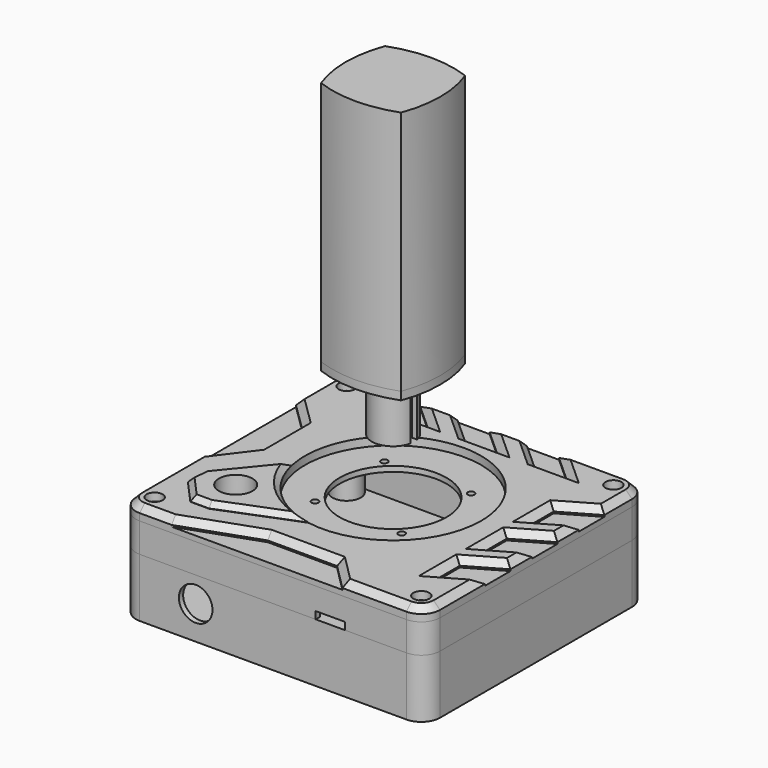
from build123d import *

# Parameters (mm, degrees)
SKETCH_R         = 1.775
EXTRUDE_DEPTH    = 3
EXTRUDE006_DEPTH = 22
SKETCH002_R      = 20.05
SKETCH002_R_2    = 1.275
SKETCH002_R_3    = 6.3
SKETCH002_R_4    = 1.8
EXTRUDE002_DEPTH = 2
SKETCH021_R      = 6.3
EXTRUDE010_DEPTH = 2
CHAMFER_SIZE     = 1.9
SKETCH001_R      = 6.3
SKETCH001_R_2    = 33
SKETCH001_R_3    = 3
EXTRUDE001_DEPTH = 3
CHAMFER001_SIZE  = 2.4
EXTRUDE013_DEPTH = 9.8
SKETCH026_W      = 14.5
SKETCH026_H      = 3
SKETCH026_W_2    = 4
EXTRUDE014_DEPTH = 11
SKETCH027_W      = 11
SKETCH027_H      = 2
EXTRUDE015_DEPTH = 2.74
SKETCH025_W      = 8
SKETCH025_H      = 2
EXTRUDE012_DEPTH = 3
SKETCH024_R      = 1.8
EXTRUDE011_DEPTH = 11
SKETCH028_W      = 1.5
SKETCH028_H      = 54.14
SKETCH028_H_2    = 20
EXTRUDE016_DEPTH = 11
SKETCH029_W      = 32.66
SKETCH029_H      = 3
EXTRUDE017_DEPTH = 3
SKETCH032_R      = 6.3
EXTRUDE020_DEPTH = 10
SKETCH031_R      = 1.8
EXTRUDE019_DEPTH = 19
SKETCH033_W      = 4
SKETCH033_H      = 10
EXTRUDE021_DEPTH = 19
SKETCH034_W      = 51.2
SKETCH034_H      = 3
EXTRUDE022_DEPTH = 19
SKETCH030_R      = 1.8
EXTRUDE018_DEPTH = 3
SKETCH035_R      = 1.45
EXTRUDE023_DEPTH = 89
EXTRUDE024_DEPTH = 3


with BuildPart() as extrude_handgrip:
    # Sketch → Extrude (new body)
    with BuildSketch(Plane.XY):
        with BuildLine():
            ThreePointArc((15, 15), (0, 17.720019), (-15, 15))
            ThreePointArc((-15, 15), (-17.720019, 0), (-15, -15))
            ThreePointArc((-15, -15), (0, -17.720019), (15, -15))
            ThreePointArc((15, -15), (17.720019, 0), (15, 15))
        make_face()
        with Locations((-11.75, 11.75)):
            Circle(SKETCH_R, mode=Mode.SUBTRACT)
        with Locations((11.75, 11.75)):
            Circle(SKETCH_R, mode=Mode.SUBTRACT)
        with Locations((11.75, -11.75)):
            Circle(SKETCH_R, mode=Mode.SUBTRACT)
        with Locations((-11.75, -11.75)):
            Circle(SKETCH_R, mode=Mode.SUBTRACT)
    extrude(amount=EXTRUDE_DEPTH)


with BuildPart() as extrude_handgrip_1:
    # Extrude placement: moved
    add(extrude_handgrip.part.moved(Location((0, 0, 45))))


with BuildPart() as fusion_stick_base:
    # Sketch018 → Extrude006 (new body)
    with BuildSketch(Plane.XY):
        with BuildLine():
            ThreePointArc((-7.795555, -1.552914), (0, -7.948724), (7.795555, -1.552914))
            Line((7.795555, -1.552914), (5.795555, -1.552914))
            ThreePointArc((-5.795555, -1.552914), (0, -6), (5.795555, -1.552914))
            Line((-5.795555, -1.552914), (-7.795555, -1.552914))
        make_face()
        with BuildLine():
            ThreePointArc((5.795555, 1.552914), (0, 6), (-5.795555, 1.552914))
            Line((-5.795555, 1.552914), (-7.795555, 1.552914))
            ThreePointArc((7.795555, 1.552914), (0, 7.948724), (-7.795555, 1.552914))
            Line((7.795555, 1.552914), (5.795555, 1.552914))
        make_face()
    extrude(amount=EXTRUDE006_DEPTH)


with BuildPart() as fusion_stick_base_1:
    # Extrude006 placement: moved
    add(fusion_stick_base.part.moved(Location((0, 0, 23))))

    # Fusion: union Extrude Handgrip
    add(extrude_handgrip_1.part)


with BuildPart() as extrude002:
    # Sketch002 → Extrude002 (new body)
    with BuildSketch(Plane.XY):
        with BuildLine():
            Line((49, 49), (-51, 49))
            ThreePointArc((-51, 49), (-55.949747, 46.949747), (-58, 42))
            Line((-58, 42), (-58, -48))
            ThreePointArc((-58, -48), (-55.949747, -52.949747), (-51, -55))
            Line((-51, -55), (49, -55))
            ThreePointArc((49, -55), (53.949747, -52.949747), (56, -48))
            Line((56, -48), (56, 42))
            ThreePointArc((56, 42), (53.949747, 46.949747), (49, 49))
        make_face()
        Circle(SKETCH002_R, mode=Mode.SUBTRACT)
        with Locations((-16.25, 16.25)):
            Circle(SKETCH002_R_2, mode=Mode.SUBTRACT)
        with Locations((16.25, 16.25)):
            Circle(SKETCH002_R_2, mode=Mode.SUBTRACT)
        with Locations((16.25, -16.25)):
            Circle(SKETCH002_R_2, mode=Mode.SUBTRACT)
        with Locations((-16.25, -16.25)):
            Circle(SKETCH002_R_2, mode=Mode.SUBTRACT)
        with Locations((-35, -30)):
            Circle(SKETCH002_R_3, mode=Mode.SUBTRACT)
        with Locations((-51, 42)):
            Circle(SKETCH002_R_4, mode=Mode.SUBTRACT)
        with Locations((49, 42)):
            Circle(SKETCH002_R_4, mode=Mode.SUBTRACT)
        with Locations((49, -48)):
            Circle(SKETCH002_R_4, mode=Mode.SUBTRACT)
        with Locations((-51, -48)):
            Circle(SKETCH002_R_4, mode=Mode.SUBTRACT)
    extrude(amount=-EXTRUDE002_DEPTH)


with BuildPart() as extrude002_1:
    # Extrude002 placement: moved
    add(extrude002.part.moved(Location((0, 0, -3))))


with BuildPart() as chamfer_body:
    # Sketch021 → Extrude010 (new body)
    with BuildSketch(Plane.XY):
        with BuildLine():
            Line((-5.67, -32.509246), (-34, -43.747727))
            Line((-41, -43.747727), (-34, -43.747727))
            Line((-49.299586, -34.530103), (-41, -43.747727))
            Line((-48.567887, -27.568449), (-49.299586, -34.530103))
            Line((-48.567887, -27.568449), (-32.140365, -7.483112))
            ThreePointArc((-32.140365, -7.483112), (-22.671188, -23.979517), (-5.67, -32.509246))
        make_face()
        with Locations((-35, -30)):
            Circle(SKETCH021_R, mode=Mode.SUBTRACT)
    extrude(amount=EXTRUDE010_DEPTH)

    # Chamfer
    chamfer_edges = [chamfer_body.edges().sort_by_distance(p)[0] for p in [
        (-40.354126, -17.525781, 2),
        (-22.671188, -23.979517, 2),
        (-19.835, -38.128487, 2),
        (-37.5, -43.747727, 2),
        (-45.149793, -39.138915, 2),
        (-48.933737, -31.049276, 2),
    ]]
    chamfer(chamfer_edges, length=CHAMFER_SIZE)


with BuildPart() as fusion_cover:
    # Sketch001 → Extrude001 (new body)
    with BuildSketch(Plane.XY):
        with BuildLine():
            ThreePointArc((56, 42), (53.949747, 46.949747), (49, 49))
            Line((23, 49), (49, 49))
            Line((34.147172, 38.963041), (23, 49))
            Line((22.147172, 38.963041), (34.147172, 38.963041))
            Line((11, 49), (22.147172, 38.963041))
            Line((11, 49), (-3, 49))
            Line((8.147172, 38.963041), (-3, 49))
            Line((-3.852828, 38.963041), (8.147172, 38.963041))
            Line((-15, 49), (-3.852828, 38.963041))
            Line((-29, 49), (-15, 49))
            Line((-17.852828, 38.963041), (-29, 49))
            Line((-29.852828, 38.963041), (-17.852828, 38.963041))
            Line((-41, 49), (-29.852828, 38.963041))
            Line((-51, 49), (-41, 49))
            ThreePointArc((-51, 49), (-55.949747, 46.949747), (-58, 42))
            Line((-58, 42), (-58, 27))
            Line((-47.16733, 16.375439), (-58, 27))
            Line((-47.16733, -3.624561), (-47.16733, 16.375439))
            Line((-58, -18), (-47.16733, -3.624561))
            Line((-58, -18), (-58, -48))
            ThreePointArc((-58, -48), (-55.949747, -52.949747), (-51, -55))
            Line((-39, -55), (-51, -55))
            Line((-39, -55), (-10.904513, -45.100505))
            Line((-10.904513, -45.100505), (15.100505, -45.100505))
            Line((15.100505, -45.100505), (25, -55))
            Line((49, -55), (25, -55))
            ThreePointArc((49, -55), (53.949747, -52.949747), (56, -48))
            Line((56, -27), (56, -48))
            Line((43.009619, -34.5), (56, -27))
            Line((43.009619, -22.5), (43.009619, -34.5))
            Line((56, -15), (43.009619, -22.5))
            Line((56, -5), (56, -15))
            Line((43.009619, -12.5), (56, -5))
            Line((43.009619, -0.5), (43.009619, -12.5))
            Line((56, 7), (43.009619, -0.5))
            Line((56, 17), (56, 7))
            Line((43.009619, 9.5), (56, 17))
            Line((43.009619, 21.5), (43.009619, 9.5))
            Line((56, 29), (43.009619, 21.5))
            Line((56, 42), (56, 29))
        make_face()
        with Locations((-35, -30)):
            Circle(SKETCH001_R, mode=Mode.SUBTRACT)
        Circle(SKETCH001_R_2, mode=Mode.SUBTRACT)
        with Locations((-51, 42)):
            Circle(SKETCH001_R_3, mode=Mode.SUBTRACT)
        with Locations((49, 42)):
            Circle(SKETCH001_R_3, mode=Mode.SUBTRACT)
        with Locations((49, -48)):
            Circle(SKETCH001_R_3, mode=Mode.SUBTRACT)
        with Locations((-51, -48)):
            Circle(SKETCH001_R_3, mode=Mode.SUBTRACT)
    extrude(amount=-EXTRUDE001_DEPTH)

    # Chamfer001
    chamfer001_edges = [fusion_cover.edges().sort_by_distance(p)[0] for p in [
        (53.949747, 46.949747, 0),
        (36, 49, 0),
        (28.573586, 43.98152, 0),
        (28.147172, 38.963041, 0),
        (16.573586, 43.98152, 0),
        (4, 49, 0),
        (2.573586, 43.98152, 0),
        (2.147172, 38.963041, 0),
        (-9.426414, 43.98152, 0),
        (-22, 49, 0),
        (-23.426414, 43.98152, 0),
        (-23.852828, 38.963041, 0),
        (-35.426414, 43.98152, 0),
        (-46, 49, 0),
        (-55.949747, 46.949747, 0),
        (-58, 34.5, 0),
        (-52.583665, 21.68772, 0),
        (-47.16733, 6.375439, 0),
        (-52.583665, -10.81228, 0),
        (-58, -33, 0),
        (-55.949747, -52.949747, 0),
        (-45, -55, 0),
        (-24.952256, -50.050253, 0),
        (2.097996, -45.100505, 0),
        (20.050253, -50.050253, 0),
        (37, -55, 0),
        (53.949747, -52.949747, 0),
        (56, -37.5, 0),
        (49.504809, -30.75, 0),
        (43.009619, -28.5, 0),
        (49.504809, -18.75, 0),
        (56, -10, 0),
        (49.504809, -8.75, 0),
        (43.009619, -6.5, 0),
        (49.504809, 3.25, 0),
        (56, 12, 0),
        (49.504809, 13.25, 0),
        (43.009619, 15.5, 0),
        (49.504809, 25.25, 0),
        (56, 35.5, 0),
    ]]
    chamfer(chamfer001_edges, length=CHAMFER001_SIZE)

    # Fusion001: union Extrude002, Chamfer body
    add(extrude002_1.part)
    add(chamfer_body.part)


with BuildPart() as fusion_cover_1:
    # Fusion001 placement: moved
    add(fusion_cover.part.moved(Location((0, 0, 5))))


with BuildPart() as extrude013:
    # Sketch023 → Extrude013 (new body)
    with BuildSketch(Plane.XY):
        Polygon((41.5, 47), (41.5, -7.14), (44.5, -7.14), (54, -7.14), (54, 0.86), (48, 0.86), (44.5, 7), (44.5, 47), align=None)
        Polygon((22.34, -7.14), (22.34, 47), (6.34, 47), (21.34, 23.86), (21.34, -7.14), align=None)
    extrude(amount=-EXTRUDE013_DEPTH)


with BuildPart() as extrude014:
    # Sketch026 → Extrude014 (new body)
    with BuildSketch(Plane.XY):
        with Locations((46.75, -8.64)):
            Rectangle(SKETCH026_W, SKETCH026_H)
        with Locations((23.34, -8.64)):
            Rectangle(SKETCH026_W_2, SKETCH026_H)
    extrude(amount=-EXTRUDE014_DEPTH)


with BuildPart() as extrude015:
    # Sketch027 → Extrude015 (new body)
    with BuildSketch(Plane.XY):
        with Locations((20.5, -54)):
            Rectangle(SKETCH027_W, SKETCH027_H)
    extrude(amount=EXTRUDE015_DEPTH)


with BuildPart() as extrude015_1:
    # Extrude015 placement: moved
    add(extrude015.part.moved(Location((0, 0, -11))))


with BuildPart() as extrude012:
    # Sketch025 → Extrude012 (new body)
    with BuildSketch(Plane.XY):
        with Locations((31.92, 48)):
            Rectangle(SKETCH025_W, SKETCH025_H)
    extrude(amount=EXTRUDE012_DEPTH)


with BuildPart() as extrude012_1:
    # Extrude012 placement: moved
    add(extrude012.part.moved(Location((0, 0, -11))))


with BuildPart() as cut001:
    # Sketch024 → Extrude011 (new body)
    with BuildSketch(Plane.XY):
        with BuildLine():
            Line((49, 49), (-51, 49))
            ThreePointArc((-51, 49), (-55.949747, 46.949747), (-58, 42))
            Line((-58, 42), (-58, -48))
            ThreePointArc((-58, -48), (-55.949747, -52.949747), (-51, -55))
            Line((-51, -55), (49, -55))
            ThreePointArc((49, -55), (53.949747, -52.949747), (56, -48))
            Line((56, -48), (56, 42))
            ThreePointArc((56, 42), (53.949747, 46.949747), (49, 49))
        make_face()
        with Locations((-51, 42)):
            Circle(SKETCH024_R, mode=Mode.SUBTRACT)
        with Locations((49, 42)):
            Circle(SKETCH024_R, mode=Mode.SUBTRACT)
        with Locations((49, -48)):
            Circle(SKETCH024_R, mode=Mode.SUBTRACT)
        with Locations((-51, -48)):
            Circle(SKETCH024_R, mode=Mode.SUBTRACT)
        with BuildLine():
            ThreePointArc((-56, 40.180149), (-47.237563, 38.237563), (-49.180149, 47))
            Line((-49.180149, 47), (47.180149, 47))
            ThreePointArc((47.180149, 47), (45.237563, 38.237563), (54, 40.180149))
            Line((54, 40.180149), (54, -46.180149))
            ThreePointArc((54, -46.180149), (45.237563, -44.237563), (47.180149, -53))
            Line((47.180149, -53), (-49.180149, -53))
            ThreePointArc((-49.180149, -53), (-47.237563, -44.237563), (-56, -46.180149))
            Line((-56, -46.180149), (-56, 40.180149))
        make_face(mode=Mode.SUBTRACT)
    extrude(amount=-EXTRUDE011_DEPTH)

    # Cut: cut Extrude012
    add(extrude012_1.part, mode=Mode.SUBTRACT)

    # Cut001: cut Extrude015
    add(extrude015_1.part, mode=Mode.SUBTRACT)


with BuildPart() as extrude016:
    # Sketch028 → Extrude016 (new body)
    with BuildSketch(Plane.XY):
        with Locations((44.75, 19.93)):
            Rectangle(SKETCH028_W, SKETCH028_H)
        with Locations((20.09, 37)):
            Rectangle(SKETCH028_W, SKETCH028_H_2)
    extrude(amount=EXTRUDE016_DEPTH)


with BuildPart() as extrude016_1:
    # Extrude016 placement: moved
    add(extrude016.part.moved(Location((0, 0, -11))))


with BuildPart() as fusion_box_inner_level:
    # Sketch029 → Extrude017 (new body)
    with BuildSketch(Plane.XY):
        with Locations((37.67, -8.64)):
            Rectangle(SKETCH029_W, SKETCH029_H)
    extrude(amount=-EXTRUDE017_DEPTH)

    # Fusion002: union Extrude013, Extrude014, Cut001, Extrude016
    add(extrude013.part)
    add(extrude014.part)
    add(cut001.part)
    add(extrude016_1.part)


with BuildPart() as extrude020:
    # Sketch032 → Extrude020 (new body)
    with BuildSketch(Plane.XZ):
        Circle(SKETCH032_R)
    extrude(amount=-EXTRUDE020_DEPTH)


with BuildPart() as extrude020_1:
    # Extrude020 placement: moved
    add(extrude020.part.moved(Location((-30, -60, -20.5))))


with BuildPart() as cut002:
    # Sketch031 → Extrude019 (new body)
    with BuildSketch(Plane.XY):
        with BuildLine():
            Line((49, 49), (-51, 49))
            ThreePointArc((-51, 49), (-55.949747, 46.949747), (-58, 42))
            Line((-58, 42), (-58, -48))
            ThreePointArc((-58, -48), (-55.949747, -52.949747), (-51, -55))
            Line((-51, -55), (49, -55))
            ThreePointArc((49, -55), (53.949747, -52.949747), (56, -48))
            Line((56, -48), (56, 42))
            ThreePointArc((56, 42), (53.949747, 46.949747), (49, 49))
        make_face()
        with Locations((-51, 42)):
            Circle(SKETCH031_R, mode=Mode.SUBTRACT)
        with Locations((49, 42)):
            Circle(SKETCH031_R, mode=Mode.SUBTRACT)
        with Locations((49, -48)):
            Circle(SKETCH031_R, mode=Mode.SUBTRACT)
        with Locations((-51, -48)):
            Circle(SKETCH031_R, mode=Mode.SUBTRACT)
        with BuildLine():
            ThreePointArc((-56, 40.180149), (-47.237563, 38.237563), (-49.180149, 47))
            Line((-49.180149, 47), (47.180149, 47))
            ThreePointArc((47.180149, 47), (45.237563, 38.237563), (54, 40.180149))
            Line((54, 40.180149), (54, -46.180149))
            ThreePointArc((54, -46.180149), (45.237563, -44.237563), (47.180149, -53))
            Line((47.180149, -53), (-49.180149, -53))
            ThreePointArc((-49.180149, -53), (-47.237563, -44.237563), (-56, -46.180149))
            Line((-56, -46.180149), (-56, 40.180149))
        make_face(mode=Mode.SUBTRACT)
    extrude(amount=EXTRUDE019_DEPTH)


with BuildPart() as cut002_1:
    # Extrude019 placement: moved
    add(cut002.part.moved(Location((0, 0, -30))))

    # Cut002: cut Extrude020
    add(extrude020_1.part, mode=Mode.SUBTRACT)


with BuildPart() as extrude021:
    # Sketch033 → Extrude021 (new body)
    with BuildSketch(Plane.XY):
        Polygon((39.5, -6.64), (39.5, -9.64), (45.5, -9.64), (45.5, 3.36), (41.5, 3.36), (41.5, -6.64), align=None)
        Polygon((24.34, -6.64), (24.34, -9.64), (20.34, -9.64), (20.34, -6.64), (20.34, 3.36), (22.34, 3.36), (22.34, -6.64), align=None)
        Polygon((22.34, 47), (6.34, 47), (12.523746, 37), (22.34, 37), align=None)
        with Locations((43.5, 42)):
            Rectangle(SKETCH033_W, SKETCH033_H)
    extrude(amount=EXTRUDE021_DEPTH)


with BuildPart() as extrude021_1:
    # Extrude021 placement: moved
    add(extrude021.part.moved(Location((0, 0, -30))))


with BuildPart() as extrude022:
    # Sketch034 → Extrude022 (new body)
    with BuildSketch(Plane.XY):
        with Locations((13.6, -51.5)):
            Rectangle(SKETCH034_W, SKETCH034_H)
    extrude(amount=-EXTRUDE022_DEPTH)


with BuildPart() as extrude022_1:
    # Extrude022 placement: moved
    add(extrude022.part.moved(Location((0, 0, -11))))


with BuildPart() as fusion_box_bottom:
    # Sketch030 → Extrude018 (new body)
    with BuildSketch(Plane.XY):
        with BuildLine():
            Line((49, 49), (-51, 49))
            ThreePointArc((-51, 49), (-55.949747, 46.949747), (-58, 42))
            Line((-58, 42), (-58, -48))
            ThreePointArc((-58, -48), (-55.949747, -52.949747), (-51, -55))
            Line((-51, -55), (49, -55))
            ThreePointArc((49, -55), (53.949747, -52.949747), (56, -48))
            Line((56, -48), (56, 42))
            ThreePointArc((56, 42), (53.949747, 46.949747), (49, 49))
        make_face()
        with Locations((-51, 42)):
            Circle(SKETCH030_R, mode=Mode.SUBTRACT)
        with Locations((49, 42)):
            Circle(SKETCH030_R, mode=Mode.SUBTRACT)
        with Locations((49, -48)):
            Circle(SKETCH030_R, mode=Mode.SUBTRACT)
        with Locations((-51, -48)):
            Circle(SKETCH030_R, mode=Mode.SUBTRACT)
    extrude(amount=-EXTRUDE018_DEPTH)


with BuildPart() as fusion_box_bottom_1:
    # Extrude018 placement: moved
    add(fusion_box_bottom.part.moved(Location((0, 0, -30))))

    # Fusion003: union Cut002, Extrude021, Extrude022
    add(cut002_1.part)
    add(extrude021_1.part)
    add(extrude022_1.part)


with BuildPart() as extrude_handgrip_top:
    # Sketch035 → Extrude023 (new body)
    with BuildSketch(Plane.XY):
        with BuildLine():
            ThreePointArc((15, 15), (0, 17.720019), (-15, 15))
            ThreePointArc((-15, 15), (-17.720019, 0), (-15, -15))
            ThreePointArc((-15, -15), (0, -17.720019), (15, -15))
            ThreePointArc((15, -15), (17.720019, 0), (15, 15))
        make_face()
        with Locations((-11.75, 11.75)):
            Circle(SKETCH035_R, mode=Mode.SUBTRACT)
        with Locations((11.75, 11.75)):
            Circle(SKETCH035_R, mode=Mode.SUBTRACT)
        with Locations((11.75, -11.75)):
            Circle(SKETCH035_R, mode=Mode.SUBTRACT)
        with Locations((-11.75, -11.75)):
            Circle(SKETCH035_R, mode=Mode.SUBTRACT)
        with BuildLine():
            ThreePointArc((-14.048097, 9.451903), (-9.451903, 9.451903), (-9.451903, 14.048097))
            Line((9.451903, 14.048097), (-9.451903, 14.048097))
            ThreePointArc((9.451903, 14.048097), (9.451903, 9.451903), (14.048097, 9.451903))
            Line((14.048097, -9.451903), (14.048097, 9.451903))
            ThreePointArc((14.048097, -9.451903), (9.451903, -9.451903), (9.451903, -14.048097))
            Line((-9.451903, -14.048097), (9.451903, -14.048097))
            ThreePointArc((-9.451903, -14.048097), (-9.451903, -9.451903), (-14.048097, -9.451903))
            Line((-14.048097, 9.451903), (-14.048097, -9.451903))
        make_face(mode=Mode.SUBTRACT)
    extrude(amount=EXTRUDE023_DEPTH)


with BuildPart() as extrude_handgrip_top_1:
    # Extrude023 placement: moved
    add(extrude_handgrip_top.part.moved(Location((0, 0, 45))))


with BuildPart() as fusion_handgrip_top:
    # Sketch036 → Extrude024 (new body)
    with BuildSketch(Plane.XY):
        with BuildLine():
            ThreePointArc((15, 15), (0, 17.720019), (-15, 15))
            ThreePointArc((-15, 15), (-17.720019, 0), (-15, -15))
            ThreePointArc((-15, -15), (0, -17.720019), (15, -15))
            ThreePointArc((15, -15), (17.720019, 0), (15, 15))
        make_face()
    extrude(amount=EXTRUDE024_DEPTH)


with BuildPart() as fusion_handgrip_top_1:
    # Extrude024 placement: moved
    add(fusion_handgrip_top.part.moved(Location((0, 0, 134))))

    # Fusion004: union Extrude Handgrip Top
    add(extrude_handgrip_top_1.part)


with BuildPart() as fusion_handgrip_top_2:
    # Fusion004 placement: moved
    add(fusion_handgrip_top_1.part.moved(Location((0, 0, 3))))


solid = Compound([fusion_stick_base_1.part, fusion_cover_1.part, fusion_box_inner_level.part, fusion_box_bottom_1.part, fusion_handgrip_top_2.part])
